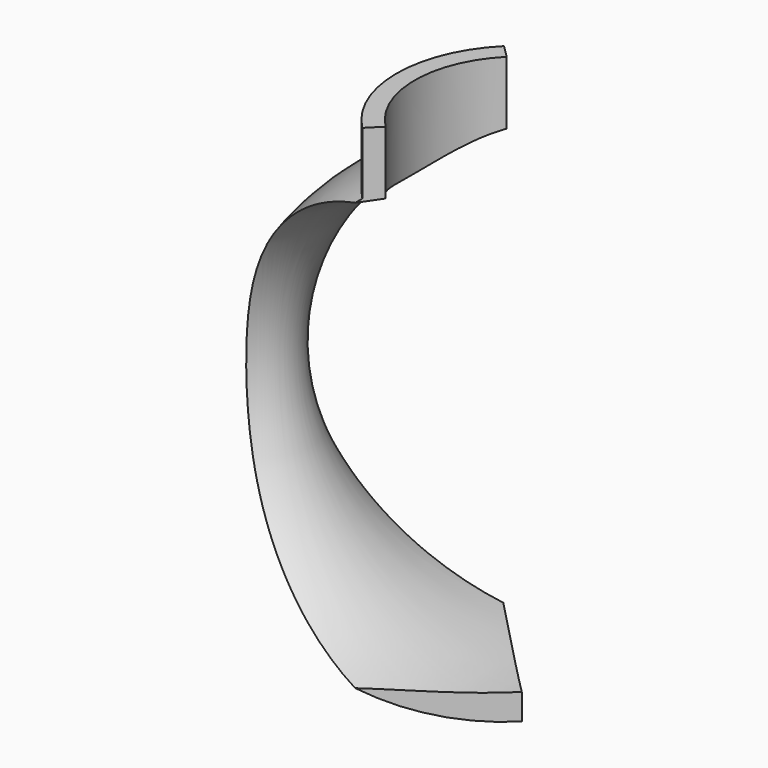
from build123d import *

# Parameters (mm, degrees)
F1_ANGLE_BACK = 45
F1_ANGLE      = 90
F2_ANGLE_BACK = 90
F2_ANGLE      = 180
F4_DEPTH      = 25


with BuildPart() as f1:
    # F0 (on Front) → F1 (revolve)
    with BuildSketch(Plane.XZ, mode=Mode.PRIVATE) as f1_sk:
        with BuildLine():
            Line((50, 42.9009879801), (50, 53.4044873264))
            Line((50, 53.4044873264), (26, 53.4044873264))
            Line((26, 53.4044873264), (26, 41.4702073618))
            ThreePointArc((26, 41.4702073618), (3.6355603381, -12.5223261848), (50, -48.0990120199))
            Line((50, -48.0990120199), (50, -43.0990120199))
            ThreePointArc((50, -43.0990120199), (7, -0.0990120199), (50, 42.9009879801))
        make_face()
    revolve(f1_sk.sketch.rotate(Axis((50, 0, -0.0990120199), (0, 0, -1)), -F1_ANGLE_BACK), axis=Axis((50, 0, -0.0990120199), (0, 0, -1)), revolution_arc=F1_ANGLE)

    # F0 (on Front) → F2 (revolve, cut)
    with BuildSketch(Plane.XZ, mode=Mode.PRIVATE) as f2_sk:
        with BuildLine():
            Line((50, -43.0990120199), (50, 42.9009879801))
            ThreePointArc((50, 42.9009879801), (7, -0.0990120199), (50, -43.0990120199))
        make_face()
    revolve(f2_sk.sketch.rotate(Axis((0, 0, -0.0990120199), (0, 0, -1)), -F2_ANGLE_BACK), axis=Axis((0, 0, -0.0990120199), (0, 0, -1)), revolution_arc=F2_ANGLE, mode=Mode.SUBTRACT)

    # F3 (on face) → F4 (cut)
    with BuildSketch(Plane.XY.offset(53.4044873264)):
        with BuildLine():
            Line((50, 0), (35.5043109857, 14.4956890143))
            ThreePointArc((35.5043109857, 14.4956890143), (29.5, 0), (35.5043109857, -14.4956890143))
            Line((35.5043109857, -14.4956890143), (50, 0))
        make_face()
    extrude(amount=-F4_DEPTH, mode=Mode.SUBTRACT)


solid = f1.part
